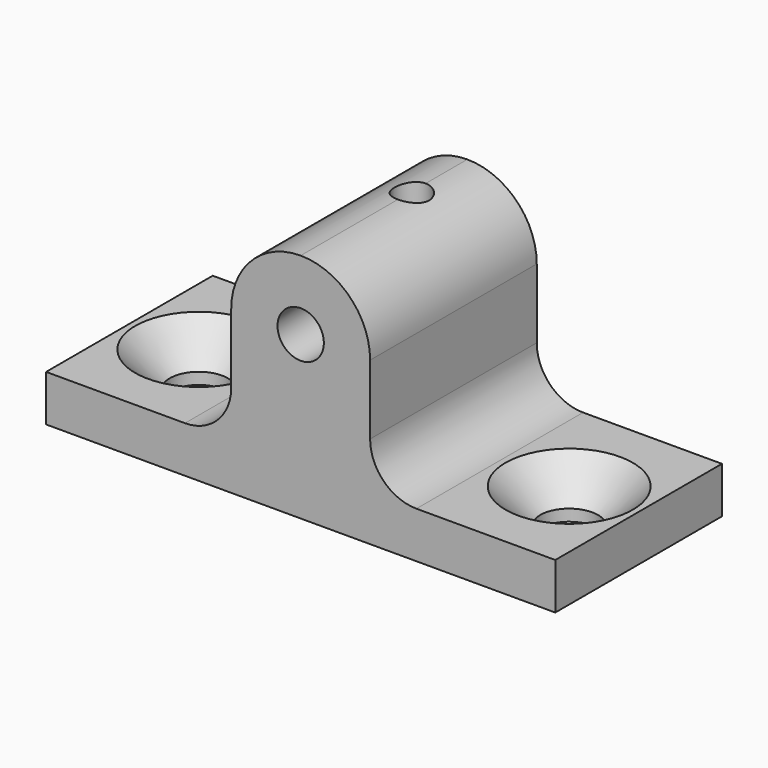
from build123d import *

# Parameters (mm, degrees)
F1_DEPTH       = 9
F3_D           = 2.5
F3_CSINK_D     = 5.5
F3_CSINK_ANGLE = 90
F5_D           = 2
F5_CBORE_D     = 3
F5_CBORE_DEPTH = 7
F8_D           = 1.5
F8_DEPTH       = 3
F8_START       = 0.0952626
F8_TIP         = 0.4506454643


with BuildPart() as f1:
    # F0 (on Front) → F1 (new body)
    with BuildSketch(Plane.XZ):
        with BuildLine():
            Line((0, 10), (0, 0))
            Line((0, 0), (11, 0))
            Line((11, 0), (11, 2))
            Line((11, 2), (5, 2))
            ThreePointArc((5, 2), (3.5857864376, 2.5857864376), (3, 4))
            Line((3, 4), (3, 7))
            ThreePointArc((3, 7), (2.1213203436, 9.1213203436), (0, 10))
        make_face()
    extrude(amount=F1_DEPTH)

    # F3 (through all)
    with Locations(Plane.XY.offset(2)):
        with Locations((8, -4.5)):
            CounterSinkHole(F3_D / 2, F3_CSINK_D / 2, counter_sink_angle=F3_CSINK_ANGLE)

    # F4: F1 across plane


with BuildPart() as f1_1:
    add(f1.part)
    add(f1.part.mirror(Plane.YZ))

    # F5 (through all)
    with Locations(Plane(origin=(0, 0, 0), x_dir=(1, 0, 0), z_dir=(0, 1, 0))):
        with Locations((0, -7)):
            CounterBoreHole(F5_D / 2, F5_CBORE_D / 2, F5_CBORE_DEPTH)

    # F8
    # its depths count from where the whole tool has entered the part; down to there all is cleared
    with Locations(Plane.XY.offset(10).offset(-F8_START)):
        with Locations((0, -3)):
            Hole(F8_D / 2, depth=F8_DEPTH)
            with Locations((0, 0, -(F8_DEPTH + F8_TIP / 2))):  # 118° drill point
                Cone(0, F8_D / 2, F8_TIP, mode=Mode.SUBTRACT)


solid = f1_1.part
